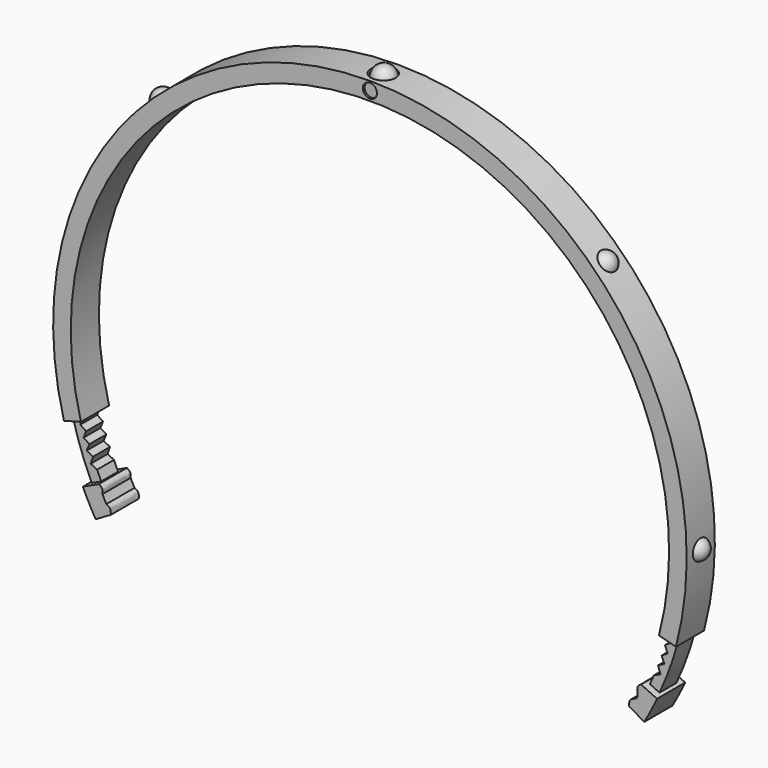
from build123d import *

# Parameters (mm, degrees)
F1_DEPTH  = 10
F4_DEPTH  = 6
F6_DEPTH  = 10
F7_R      = 2
F7_R_2    = 1.9
F8_DEPTH  = 2
F10_R     = 3.5
F11_DEPTH = 2
F21_R     = 1.9
F22_DEPTH = 0.5


with BuildPart() as f1:
    # F0 (on Front) → F1 (new body)
    with BuildSketch(Plane.XZ):
        with BuildLine():
            ThreePointArc((-82.1036952346, -21.9996188337), (0, 85), (82.1036952346, -21.9996188337))
            Line((82.1036952346, -21.9996188337), (86.933324366, -23.2937140592))
            ThreePointArc((86.933324366, -23.2937140592), (0, 90), (-86.933324366, -23.2937140592))
            Line((-86.933324366, -23.2937140592), (-82.1036952346, -21.9996188337))
        make_face()
    extrude(amount=F1_DEPTH)

    # F3 (on offset) → F4 (join)
    with BuildSketch(Plane.XZ.offset(2)):
        with BuildLine():
            Line((85.9673985397, -23.0348950141), (83.0696210609, -22.2584378788))
            Line((83.0696210609, -22.2584378788), (83.8824317228, -24.0858236695))
            Line((83.8824317228, -24.0858236695), (82.2239511186, -25.2036081235))
            Line((82.2239511186, -25.2036081235), (82.9711464755, -27.0587898124))
            Line((82.9711464755, -27.0587898124), (81.2738982771, -28.1167825123))
            Line((81.2738982771, -28.1167825123), (82.0440426469, -29.9691148102))
            Line((82.0440426469, -29.9691148102), (80.2494925407, -30.9195560603))
            Line((80.2494925407, -30.9195560603), (80.9425488114, -32.9182744026))
            Line((80.9425488114, -32.9182744026), (79.0897431368, -33.7759164281))
            ThreePointArc((79.0897431368, -33.7759164281), (78.526614804, -35.0652358816), (77.9424696852, -36.3451705097))
            Line((77.9424696852, -36.3451705097), (80.6613930463, -37.6130252949))
            ThreePointArc((80.6613930463, -37.6130252949), (83.6326432499, -30.439792756), (85.9673985397, -23.0348950141))
        make_face()
        with BuildLine():
            Line((-82.2239511186, -25.2036081235), (-83.8824317228, -24.0858236695))
            Line((-83.8824317228, -24.0858236695), (-83.0696210609, -22.2584378788))
            Line((-83.0696210609, -22.2584378788), (-85.9673985397, -23.0348950141))
            ThreePointArc((-85.9673985397, -23.0348950141), (-83.6326432499, -30.439792756), (-80.6613930463, -37.6130252949))
            Line((-80.6613930463, -37.6130252949), (-77.9424696852, -36.3451705097))
            ThreePointArc((-77.9424696852, -36.3451705097), (-78.526614804, -35.0652358816), (-79.0897431368, -33.7759164281))
            Line((-79.0897431368, -33.7759164281), (-80.9425488114, -32.9182744026))
            Line((-80.9425488114, -32.9182744026), (-80.2494925407, -30.9195560603))
            Line((-80.2494925407, -30.9195560603), (-82.0440426469, -29.9691148102))
            Line((-82.0440426469, -29.9691148102), (-81.2738982771, -28.1167825123))
            Line((-81.2738982771, -28.1167825123), (-82.9711464755, -27.0587898124))
            Line((-82.9711464755, -27.0587898124), (-82.2239511186, -25.2036081235))
        make_face()
    extrude(amount=F4_DEPTH)

    # F7 (on face) → F8 (cut)
    with BuildSketch(Plane.XZ.offset(10)):
        with Locations((0, 87.5184461474)):
            Circle(F7_R)
        with Locations((0, 87.5184461474)):
            Circle(F7_R_2, mode=Mode.SUBTRACT)
    extrude(amount=-F8_DEPTH, mode=Mode.SUBTRACT)

    # F10 (on offset) → F11 (cut)
    with BuildSketch(Plane.XY.offset(90)):
        with Locations((0, -5.2689157891)):
            Circle(F10_R)
    extrude(amount=-F11_DEPTH, mode=Mode.SUBTRACT)

    # F13 (on offset) → F14 (revolve)
    with BuildSketch(Plane.XZ.offset(5)):
        with BuildLine():
            Line((0, 92.1213387046), (0, 88))
            Line((0, 88), (3.2221360598, 88))
            Line((3.2221360598, 88), (3.2221360598, 88.8992026448))
            ThreePointArc((3.2221360598, 88.8992026448), (2.2783942578, 91.1775969026), (0, 92.1213387046))
        make_face()
    revolve(axis=Axis((0, -5, 90.0606693523), (0, 0, 1)))

    # F15 (on offset) → F16 (revolve)
    with BuildSketch(Plane.XZ.offset(5)):
        with BuildLine():
            Line((86.490745002, 3), (86.490745002, 0))
            Line((86.490745002, 0), (92.0285186375, 0))
            ThreePointArc((92.0285186375, 0), (91.1498389811, 2.1213203436), (89.0285186375, 3))
            Line((89.0285186375, 3), (86.490745002, 3))
        make_face()
        with BuildLine():
            Line((-92.0285186375, 0), (-86.490745002, 0))
            Line((-86.490745002, 0), (-86.490745002, 3))
            Line((-86.490745002, 3), (-89.0285186375, 3))
            ThreePointArc((-89.0285186375, 3), (-91.1498389811, 2.1213203436), (-92.0285186375, 0))
        make_face()
    revolve(axis=Axis((89.2596318198, -5, 0), (1, 0, 0)))

    # F17 (on offset) → F18 (revolve)
    with BuildSketch(Plane.XZ.offset(5)):
        with BuildLine():
            Line((59.2343263561, 63.4769670432), (61.3556466997, 61.3556466997))
            Line((61.3556466997, 61.3556466997), (64.9397701984, 64.9397701984))
            ThreePointArc((64.9397701984, 64.9397701984), (62.8634241751, 65.8555322529), (60.7603356475, 65.0029763346))
            Line((60.7603356475, 65.0029763346), (59.2343263561, 63.4769670432))
        make_face()
    revolve(axis=Axis((63.147708449, -5, 63.147708449), (0.7071067812, 0, 0.7071067812)))

    # F19 (on offset) → F20 (revolve)
    with BuildSketch(Plane.XZ.offset(5)):
        with BuildLine():
            Line((-64.9019669508, 64.9019669508), (-61.5200344473, 61.5200344473))
            Line((-61.5200344473, 61.5200344473), (-59.3987141038, 63.6413547909))
            Line((-59.3987141038, 63.6413547909), (-60.6593262637, 64.9019669508))
            ThreePointArc((-60.6593262637, 64.9019669508), (-62.7806466073, 65.7806466073), (-64.9019669508, 64.9019669508))
        make_face()
    revolve(axis=Axis((-63.2110006991, -5, 63.2110006991), (-0.7071067812, 0, 0.7071067812)))

    # F21 (on face) → F22 (cut)
    with BuildSketch(Plane.XZ.offset(10)):
        with Locations((0, 87.5184461474)):
            Circle(F21_R)
    extrude(amount=-F22_DEPTH, mode=Mode.SUBTRACT)


with BuildPart() as f6:
    # F5 (on Front) → F6 (new body)
    with BuildSketch(Plane.XZ):
        with BuildLine():
            Line((-77.0361618981, -35.922552248), (-81.5677008333, -38.0356435567))
            ThreePointArc((-81.5677008333, -38.0356435567), (-79.830974986, -41.5573751912), (-77.9422863406, -45))
            Line((-77.9422863406, -45), (-73.6121593217, -42.5))
            ThreePointArc((-73.6121593217, -42.5), (-74.2545455659, -41.3674082195), (-74.8795071796, -40.2251091302))
            add(Edge.make_bspline(
                [(-75.9888335786, -38.0880187377), (-76.0421703816, -38.6398517158), (-76.1579769992, -39.7132043629), (-75.2851202488, -40.0602481492), (-74.8795071796, -40.2251091302)],
                knots=[0.3333908987, 0.3333908987, 0.3333908987, 0.3333908987, 0.5001251423, 0.6489809174, 0.6489809174, 0.6489809174, 0.6489809174], degree=3))
            ThreePointArc((-75.9888335786, -38.0880187377), (-76.5201582685, -37.0089905098), (-77.0361618981, -35.922552248))
        make_face()
        with BuildLine():
            add(Edge.make_bspline(
                [(-77.0361618981, -35.922552248), (-76.5679988081, -36.2025121173), (-75.8564354899, -36.6280244608), (-75.9523528632, -37.7105821334), (-75.9888335786, -38.0880187377)],
                knots=[0, 0, 0, 0, 0.2193498587, 0.3333908987, 0.3333908987, 0.3333908987, 0.3333908987], degree=3))
            ThreePointArc((-77.0361618981, -35.922552248), (-76.5201582685, -37.0089905098), (-75.9888335786, -38.0880187377))
        make_face()
        with BuildLine():
            ThreePointArc((-74.8795071796, -40.2251091302), (-74.2545455659, -41.3674082195), (-73.6121593217, -42.5))
            add(Edge.make_bspline(
                [(-74.8795071796, -40.2251091302), (-74.5913320738, -40.3422375816), (-73.6450547247, -40.7329577311), (-73.6256898345, -41.7731814842), (-73.6121593217, -42.5)],
                knots=[0.6489809174, 0.6489809174, 0.6489809174, 0.6489809174, 0.7547381822, 1, 1, 1, 1], degree=3))
        make_face()
        with BuildLine():
            ThreePointArc((-74.8795071796, -40.2251091302), (-75.4417381137, -39.1604922132), (-75.9888335786, -38.0880187377))
            add(Edge.make_bspline(
                [(-75.9888335786, -38.0880187377), (-76.0421703816, -38.6398517158), (-76.1579769992, -39.7132043629), (-75.2851202488, -40.0602481492), (-74.8795071796, -40.2251091302)],
                knots=[0.3333908987, 0.3333908987, 0.3333908987, 0.3333908987, 0.5001251423, 0.6489809174, 0.6489809174, 0.6489809174, 0.6489809174], degree=3))
        make_face()
    extrude(amount=F6_DEPTH)


with BuildPart() as f6b:
    # F5 (on Front) → F6, piece 2 (new body)
    with BuildSketch(Plane.XZ):
        with BuildLine():
            Line((81.5677008333, -38.0356435567), (77.0361618981, -35.922552248))
            add(Edge.make_bspline(
                [(77.0361618981, -35.922552248), (76.5679988081, -36.2025121173), (75.5005710313, -36.8408301463), (76.631920675, -40.0354401877), (73.6532667448, -40.2918326734), (73.6256898345, -41.7731814842), (73.6121593217, -42.5)],
                knots=[0, 0, 0, 0, 0.2193498587, 0.5001251423, 0.7547381822, 1, 1, 1, 1], degree=3))
            Line((73.6121593217, -42.5), (77.9422863406, -45))
            ThreePointArc((77.9422863406, -45), (79.830974986, -41.5573751912), (81.5677008333, -38.0356435567))
        make_face()
    extrude(amount=F6_DEPTH)


solid = Compound([f1.part, f6.part, f6b.part])
